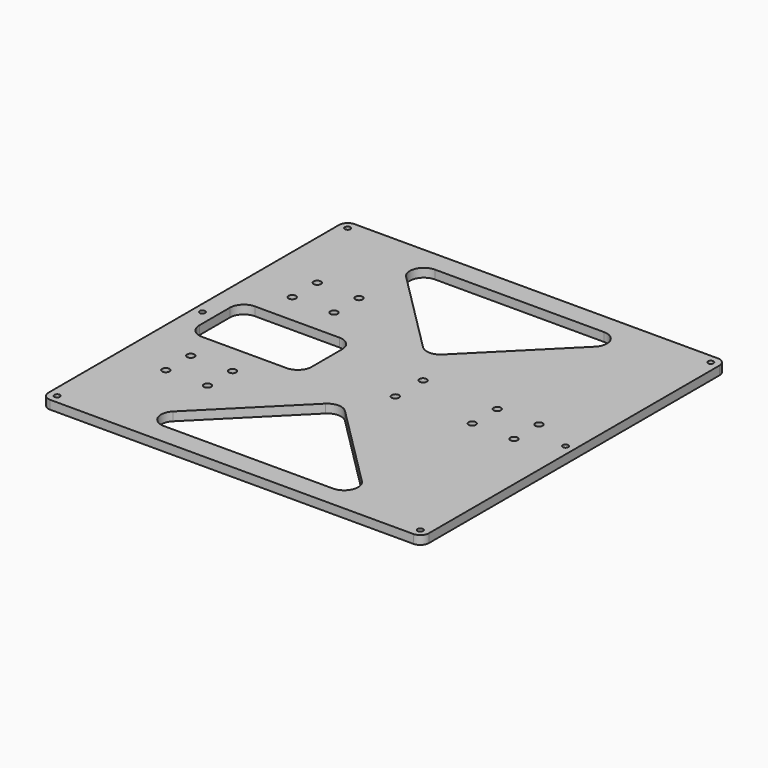
from build123d import *

# Parameters (mm, degrees)
F0_W     = 219
F0_H     = 219
F0_R     = 1.6
F1_DEPTH = 5
F2_R     = 2.1
F3_DEPTH = 25
F4_R     = 5
F6_DEPTH = 25


with BuildPart() as f1:
    # F0 (on Top) → F1 (new body)
    with BuildSketch(Plane.XY):
        Rectangle(F0_W, F0_H)
        with Locations((-104.5, -104.5)):
            Circle(F0_R, mode=Mode.SUBTRACT)
        with Locations((104.5, -104.5)):
            Circle(F0_R, mode=Mode.SUBTRACT)
        with Locations((-104.5, 0)):
            Circle(F0_R, mode=Mode.SUBTRACT)
        with Locations((-104.5, 104.5)):
            Circle(F0_R, mode=Mode.SUBTRACT)
        with Locations((104.5, 0)):
            Circle(F0_R, mode=Mode.SUBTRACT)
        with Locations((104.5, 104.5)):
            Circle(F0_R, mode=Mode.SUBTRACT)
    extrude(amount=F1_DEPTH)

    # F2 (on face) → F3 (cut)
    with BuildSketch(Plane.XY.offset(5)):
        with Locations((-82, -54.5)):
            Circle(F2_R)
        with Locations((-58, -54.5)):
            Circle(F2_R)
        with Locations((-58, -36.5)):
            Circle(F2_R)
        with Locations((-82, -36.5)):
            Circle(F2_R)
        with Locations((-82, 36.5)):
            Circle(F2_R)
        with Locations((-82, 54.5)):
            Circle(F2_R)
        with Locations((-58, 54.5)):
            Circle(F2_R)
        with Locations((-58, 36.5)):
            Circle(F2_R)
        with Locations((14.5, -10)):
            Circle(F2_R)
        with Locations((58, -9)):
            Circle(F2_R)
        with Locations((82, -9)):
            Circle(F2_R)
        with Locations((82, 9)):
            Circle(F2_R)
        with Locations((58, 9)):
            Circle(F2_R)
        with Locations((14.5, 10)):
            Circle(F2_R)
    extrude(amount=-F3_DEPTH, mode=Mode.SUBTRACT)

    # F4
    f4_edges = [f1.edges().sort_by_distance(p)[0] for p in [
        (109.5, 109.5, 2.5),
        (109.5, -109.5, 2.5),
        (-109.5, -109.5, 2.5),
        (-109.5, 109.5, 2.5),
    ]]
    fillet(f4_edges, radius=F4_R)

    # F5 (on face) → F6 (cut)
    with BuildSketch(Plane.XY.offset(5)):
        with BuildLine():
            Line((-5.656854, -35.156854), (-54.343146, -83.843146))
            ThreePointArc((-54.343146, -83.843146), (-56.077328, -92.561467), (-48.686292, -97.5))
            Line((-48.686292, -97.5), (48.686292, -97.5))
            ThreePointArc((48.686292, -97.5), (56.077328, -92.561467), (54.343146, -83.843146))
            Line((54.343146, -83.843146), (5.656854, -35.156854))
            ThreePointArc((5.656854, -35.156854), (0, -32.813708), (-5.656854, -35.156854))
        make_face()
        with BuildLine():
            Line((5.656854, 35.156854), (54.343146, 83.843146))
            ThreePointArc((54.343146, 83.843146), (56.077328, 92.561467), (48.686292, 97.5))
            Line((48.686292, 97.5), (-48.686292, 97.5))
            ThreePointArc((-48.686292, 97.5), (-56.077328, 92.561467), (-54.343146, 83.843146))
            Line((-54.343146, 83.843146), (-5.656854, 35.156854))
            ThreePointArc((-5.656854, 35.156854), (0, 32.813708), (5.656854, 35.156854))
        make_face()
        with BuildLine():
            Line((-89.5, -19), (-40.814, -19))
            ThreePointArc((-40.814, -19), (-35.157146, -16.656854), (-32.814, -11))
            Line((-32.814, -11), (-32.814, 11))
            ThreePointArc((-32.814, 11), (-35.157146, 16.656854), (-40.814, 19))
            Line((-40.814, 19), (-89.5, 19))
            ThreePointArc((-89.5, 19), (-95.156854, 16.656854), (-97.5, 11))
            Line((-97.5, 11), (-97.5, -11))
            ThreePointArc((-97.5, -11), (-95.156854, -16.656854), (-89.5, -19))
        make_face()
    extrude(amount=-F6_DEPTH, mode=Mode.SUBTRACT)


solid = f1.part
